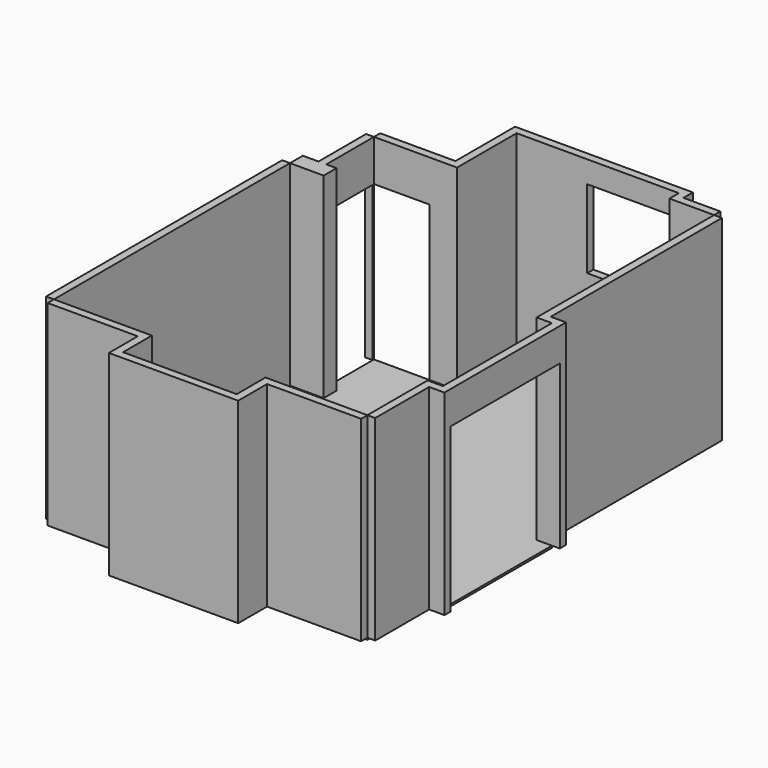
from build123d import *

# Parameters (mm, degrees)
F1_DEPTH  = 25
F2_W      = 100
F2_H      = 3765
F3_DEPTH  = 2500
F5_DEPTH  = 2500
F7_DEPTH  = 2500
F9_DEPTH  = 2500
F11_DEPTH = 2500
F12_W     = 100
F12_H     = 760
F13_DEPTH = 2500
F14_W     = 1170
F14_H     = 1000
F15_DEPTH = 100.001
F16_W     = 740
F16_H     = 1970
F17_DEPTH = 400.001
F18_W     = 710
F18_H     = 1970
F19_DEPTH = 1050.001
F20_W     = 1740
F20_H     = 2080
F21_DEPTH = 100.001


with BuildPart() as f1:
    # F0 (on Top) → F1 (new body)
    with BuildSketch(Plane.XY):
        Polygon((0, 3765), (0, 0), (1250, 0), (1250, -460), (2700, -460), (2700, 0), (4000, 0), (4000, 960), (4195, 960), (4195, 2700), (4000, 2700), (4000, 5530), (3430, 5530), (3430, 5680), (1360, 5680), (1360, 4730), (300, 4730), (300, 3970), (430, 3970), (430, 3765), align=None)
    extrude(amount=-F1_DEPTH)



with BuildPart() as f3:
    # F2 (on face) → F3 (new body)
    with BuildSketch(Plane.XY):
        with Locations((-50, 1882.5)):
            Rectangle(F2_W, F2_H)
    extrude(amount=F3_DEPTH)


with BuildPart() as f5:
    # F4 (on face) → F5 (new body)
    with BuildSketch(Plane.XY):
        Polygon((1250, 0), (0, 0), (0, -100), (1150, -100), (1150, -560), (2800, -560), (2800, -100), (4000, -100), (4000, 0), (2700, 0), (2700, -460), (1250, -460), align=None)
    extrude(amount=F5_DEPTH)


with BuildPart() as f7:
    # F6 (on face) → F7 (new body)
    with BuildSketch(Plane.XY):
        Polygon((4000, 960), (4000, 0), (4100, 0), (4100, 860), (4295, 860), (4295, 2800), (4100, 2800), (4100, 5530), (4000, 5530), (4000, 2700), (4195, 2700), (4195, 960), align=None)
    extrude(amount=F7_DEPTH)

    # F20 (on face) → F21 (cut, through all)
    with BuildSketch(Plane(origin=(4195, 0, 0), x_dir=(0, -1, 0), z_dir=(-1, 0, 0))):
        with Locations((-1830, 1040)):
            Rectangle(F20_W, F20_H)
    extrude(amount=-F21_DEPTH, mode=Mode.SUBTRACT)


with BuildPart() as f9:
    # F8 (on face) → F9 (new body)
    with BuildSketch(Plane.XY):
        Polygon((0, 3765), (430, 3765), (430, 3970), (300, 3970), (0, 3970), align=None)
    extrude(amount=F9_DEPTH)


with BuildPart() as f11:
    # F10 (on face) → F11 (new body)
    with BuildSketch(Plane.XY):
        Polygon((3430, 5530), (4000, 5530), (4000, 5630), (3530, 5630), (3530, 5780), (1260, 5780), (1260, 4830), (300, 4830), (300, 4730), (1360, 4730), (1360, 5680), (3430, 5680), align=None)
    extrude(amount=F11_DEPTH)


with BuildPart() as f1_1:
    add(f1.part)

    add(f9.part)  # F13 merges F9

    add(f11.part)  # F13 merges F11
    # F12 (on face) → F13 (join)
    with BuildSketch(Plane.XY):
        with Locations((250, 4350)):
            Rectangle(F12_W, F12_H)
    extrude(amount=F13_DEPTH)

    # F14 (on face) → F15 (cut, through all)
    with BuildSketch(Plane.XZ.offset(-5680)):
        with Locations((2845, 1720)):
            Rectangle(F14_W, F14_H)
    extrude(amount=-F15_DEPTH, mode=Mode.SUBTRACT)

    # F16 (on face) → F17 (cut, through all)
    with BuildSketch(Plane.YZ.offset(300)):
        with Locations((4340, 985)):
            Rectangle(F16_W, F16_H)
    extrude(amount=-F17_DEPTH, mode=Mode.SUBTRACT)

    # F18 (on face) → F19 (cut, through all)
    with BuildSketch(Plane.XZ.offset(-4730)):
        with Locations((655, 985)):
            Rectangle(F18_W, F18_H)
    extrude(amount=-F19_DEPTH, mode=Mode.SUBTRACT)


solid = Compound([f3.part, f5.part, f7.part, f1_1.part])
